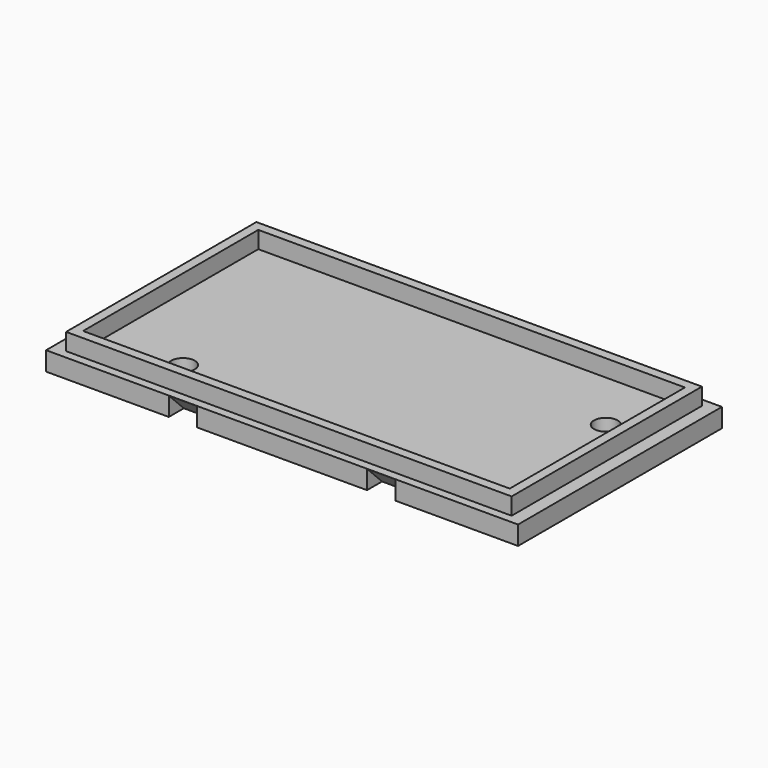
from build123d import *

# Parameters (mm, degrees)
F0_W      = 50
F0_H      = 27
F1_DEPTH  = 2
F2_W      = 1
F2_H      = 23.2
F2_H_2    = 0.3
F3_DEPTH  = 1.8
F4_R      = 1.25
F5_DEPTH  = 2
F11_DEPTH = 3
F12_DEPTH = 3


with BuildPart() as f1:
    # F0 (on Top) → F1 (new body)
    with BuildSketch(Plane.XY):
        Rectangle(F0_W, F0_H)
    extrude(amount=F1_DEPTH)

    # F2 (on face) → F3 (join)
    with BuildSketch(Plane.XY.offset(2)):
        with Locations((23.1, 0)):
            Rectangle(F2_W, F2_H)
        with Locations((23.1, 11.75)):
            Rectangle(F2_W, F2_H_2)
        Polygon((-22.6, 11.6), (22.6, 11.6), (22.6, 11.9), (23.6, 11.9), (23.6, 12.6), (-23.6, 12.6), (-23.6, 11.9), (-22.6, 11.9), align=None)
        with Locations((23.1, -11.75)):
            Rectangle(F2_W, F2_H_2)
        with Locations((-23.1, 0)):
            Rectangle(F2_W, F2_H)
        with Locations((-23.1, 11.75)):
            Rectangle(F2_W, F2_H_2)
        Polygon((22.6, -11.9), (22.6, -11.6), (-22.6, -11.6), (-22.6, -11.9), (-23.6, -11.9), (-23.6, -12.6), (23.6, -12.6), (23.6, -11.9), align=None)
        with Locations((-23.1, -11.75)):
            Rectangle(F2_W, F2_H_2)
    extrude(amount=F3_DEPTH)

    # F4 (on face) → F5 (cut)
    with BuildSketch(Plane(origin=(0, 0, 0), x_dir=(1, 0, 0), z_dir=(0, 0, -1))):
        with Locations((-14.5, 8.5)):
            Circle(F4_R)
        with Locations((19.5, -5)):
            Circle(F4_R)
    extrude(amount=-F5_DEPTH, mode=Mode.SUBTRACT)

    # F9 (on offset) → F11 (cut)
    with BuildSketch(Plane.YZ.offset(12)):
        Polygon((0, -11.506825), (-13.72761, 2.220785), (-13.72761, -11.823715), (0, -11.823715), (13.72761, -11.823715), (13.72761, 2.220785), align=None)
    extrude(amount=-F11_DEPTH, mode=Mode.SUBTRACT)

    # F10 (on offset) → F12 (cut)
    with BuildSketch(Plane.YZ.offset(-12)):
        Polygon((0, -11.506825), (-13.72761, 2.220785), (-13.72761, -11.823715), (0, -11.823715), (13.72761, -11.823715), (13.72761, 2.220785), align=None)
    extrude(amount=F12_DEPTH, mode=Mode.SUBTRACT)


solid = f1.part
